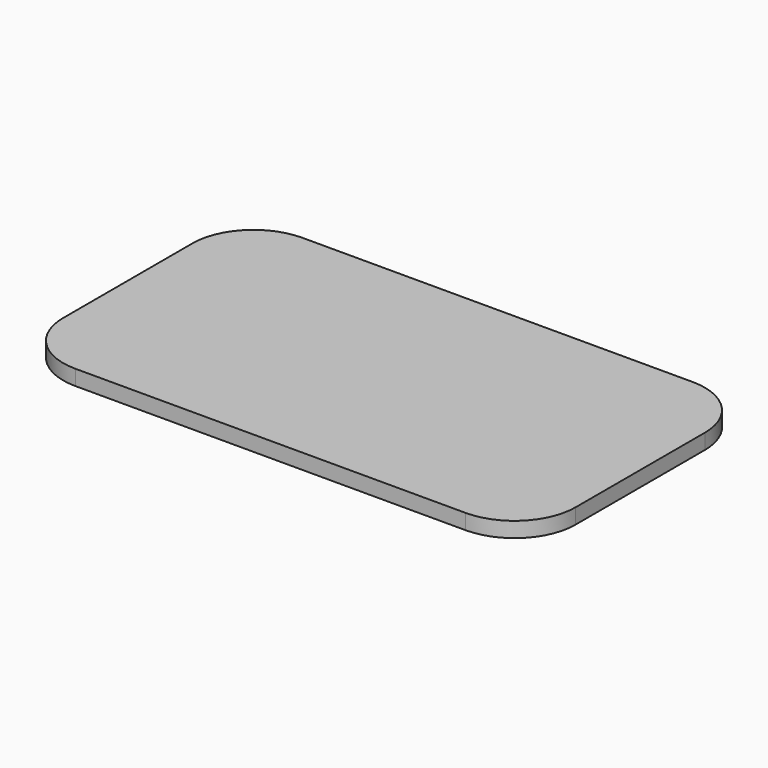
from build123d import *

# Parameters (mm, degrees)
F1_DEPTH = 1


with BuildPart() as f1:
    # F0 (on Top) → F1 (new body)
    with BuildSketch(Plane.XY):
        with BuildLine():
            Line((-16.8, 5.3), (-16.8, -5.3))
            ThreePointArc((-16.8, -5.3), (-15.628427, -8.128427), (-12.8, -9.3))
            Line((-12.8, -9.3), (12.8, -9.3))
            ThreePointArc((12.8, -9.3), (15.628427, -8.128427), (16.8, -5.3))
            Line((16.8, -5.3), (16.8, 5.3))
            ThreePointArc((16.8, 5.3), (15.628427, 8.128427), (12.8, 9.3))
            Line((12.8, 9.3), (-12.8, 9.3))
            ThreePointArc((-12.8, 9.3), (-15.628427, 8.128427), (-16.8, 5.3))
        make_face()
        with BuildLine():
            ThreePointArc((16, -5.3), (15.062742, -7.562742), (12.8, -8.5))
            Line((12.8, -8.5), (-12.8, -8.5))
            ThreePointArc((-12.8, -8.5), (-15.062742, -7.562742), (-16, -5.3))
            Line((-16, -5.3), (-16, 5.3))
            ThreePointArc((-16, 5.3), (-15.062742, 7.562742), (-12.8, 8.5))
            Line((-12.8, 8.5), (12.8, 8.5))
            ThreePointArc((12.8, 8.5), (15.062742, 7.562742), (16, 5.3))
            Line((16, 5.3), (16, -5.3))
        make_face(mode=Mode.SUBTRACT)
        with BuildLine():
            Line((-12.8, -8.5), (12.8, -8.5))
            ThreePointArc((12.8, -8.5), (15.062742, -7.562742), (16, -5.3))
            Line((16, -5.3), (16, 5.3))
            ThreePointArc((16, 5.3), (15.062742, 7.562742), (12.8, 8.5))
            Line((12.8, 8.5), (-12.8, 8.5))
            ThreePointArc((-12.8, 8.5), (-15.062742, 7.562742), (-16, 5.3))
            Line((-16, 5.3), (-16, -5.3))
            ThreePointArc((-16, -5.3), (-15.062742, -7.562742), (-12.8, -8.5))
        make_face()
    extrude(amount=F1_DEPTH)


solid = f1.part
